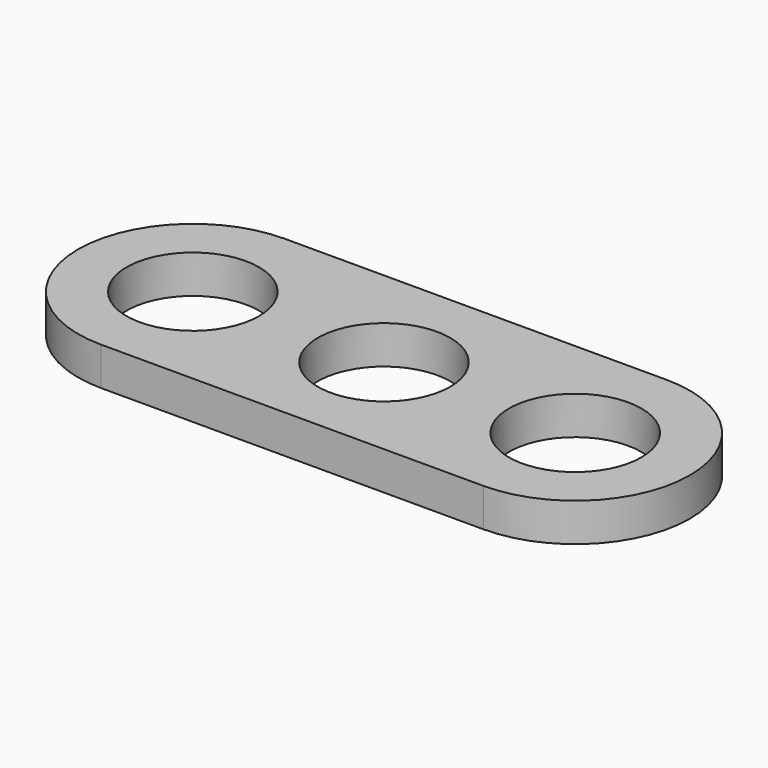
from build123d import *

# Parameters (mm, degrees)
F0_R     = 11
F1_DEPTH = 6.35


with BuildPart() as f1:
    # F0 (on Top) → F1 (new body)
    with BuildSketch(Plane.XY):
        with BuildLine():
            Line((31.749965, 19.050032), (-31.750035, 19.050059))
            ThreePointArc((-31.750035, 19.050059), (-50.800027, 5.9e-05), (-31.750035, -19.049941))
            Line((-31.750035, -19.049941), (31.749965, -19.049968))
            ThreePointArc((31.749965, -19.049968), (50.799973, 3.2e-05), (31.749965, 19.050032))
        make_face()
        Circle(F0_R, mode=Mode.SUBTRACT)
        with Locations((31.749965, 3.2e-05)):
            Circle(F0_R, mode=Mode.SUBTRACT)
        with Locations((-31.750035, 5.9e-05)):
            Circle(F0_R, mode=Mode.SUBTRACT)
    extrude(amount=F1_DEPTH)


solid = f1.part
